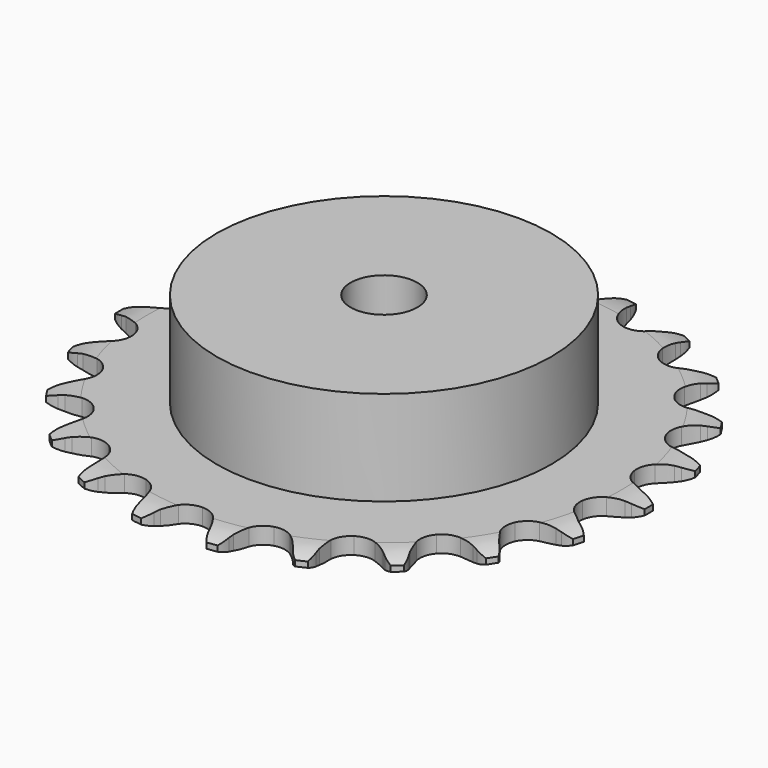
from build123d import *

# Parameters (mm, degrees)
PAD_DEPTH         = 3
SKETCH001_R       = 30
PAD001_DEPTH      = 20
SKETCH002_R       = 6
POCKET_DEPTH      = 0.001
POCKET_DEPTH_BACK = 20.001


with BuildPart() as part:
    # Sprocket → Pad (new body)
    with BuildSketch(Plane.XY):
        with BuildLine():
            ThreePointArc((-6.92637, 48.173959), (-5.704686, 46.972333), (-4.847717, 45.488412))
            Line((-4.847717, 45.488412), (-4.472713, 44.572816))
            ThreePointArc((-4.472713, 44.572816), (-3.8712, 43.346946), (-3.110322, 42.213085))
            ThreePointArc((-3.110322, 42.213085), (-1.732291, 41.089009), (0, 40.686906))
            ThreePointArc((0, 40.686906), (1.732291, 41.089009), (3.110322, 42.213085))
            ThreePointArc((3.110322, 42.213085), (3.8712, 43.346946), (4.472713, 44.572816))
            Line((4.472713, 44.572816), (4.847717, 45.488412))
            ThreePointArc((4.847717, 45.488412), (5.704686, 46.972333), (6.92637, 48.173959))
            ThreePointArc((6.92637, 48.173959), (7.76003, 46.676819), (8.164216, 45.011571))
            Line((8.164216, 45.011571), (8.266077, 44.027413))
            ThreePointArc((8.266077, 44.027413), (8.497857, 42.681733), (8.908469, 41.379438))
            ThreePointArc((8.908469, 41.379438), (9.913991, 39.912658), (11.462826, 39.0388))
            ThreePointArc((11.462826, 39.0388), (13.238232, 38.936573), (14.877132, 39.62688))
            Line((14.877132, 39.62688), (16.84915, 41.507195))
            ThreePointArc((16.84915, 41.507195), (17.148594, 41.901168), (17.466917, 42.280052))
            ThreePointArc((17.466917, 42.280052), (18.707241, 43.462428), (20.217976, 44.271192))
            ThreePointArc((20.217976, 44.271192), (20.596073, 42.599827), (20.514733, 40.88816))
            Line((20.514733, 40.88816), (20.335198, 39.91517))
            ThreePointArc((20.335198, 39.91517), (20.178467, 38.5587), (20.205548, 37.193474))
            ThreePointArc((20.205548, 37.193474), (20.7571, 35.502821), (21.997002, 34.228003))
            ThreePointArc((21.997002, 34.228003), (23.671691, 33.629727), (25.438686, 33.83034))
            Line((25.438686, 33.83034), (27.860569, 35.078908))
            ThreePointArc((27.860569, 35.078908), (28.258879, 35.372559), (28.671051, 35.646413))
            ThreePointArc((28.671051, 35.646413), (30.194247, 36.431455), (31.871642, 36.781835))
            ThreePointArc((31.871642, 36.781835), (31.763546, 35.07165), (31.203268, 33.452234))
            Line((31.203268, 33.452234), (30.756883, 32.569238))
            ThreePointArc((30.756883, 32.569238), (30.224339, 31.311871), (29.865694, 29.994316))
            ThreePointArc((29.865694, 29.994316), (29.918592, 28.216756), (30.749112, 26.644257))
            ThreePointArc((30.749112, 26.644257), (32.18741, 25.5984), (33.939349, 25.293068))
            Line((33.939349, 25.293068), (36.614891, 25.808736))
            ThreePointArc((36.614891, 25.808736), (37.079797, 25.978276), (37.552427, 26.124915))
            ThreePointArc((37.552427, 26.124915), (39.235095, 26.449023), (40.943257, 26.312633))
            ThreePointArc((40.943257, 26.312633), (40.357725, 24.702177), (39.3639, 23.306207))
            Line((39.3639, 23.306207), (38.686828, 22.58474))
            ThreePointArc((38.686828, 22.58474), (37.821614, 21.52834), (37.106299, 20.365198))
            ThreePointArc((37.106299, 20.365198), (36.656257, 18.644738), (37.010112, 16.901952))
            ThreePointArc((37.010112, 16.901952), (38.095497, 15.493244), (39.690448, 14.706701))
            Line((39.690448, 14.706701), (42.402892, 14.447694))
            ThreePointArc((42.402892, 14.447694), (42.896731, 14.479387), (43.391529, 14.486931))
            ThreePointArc((43.391529, 14.486931), (45.097349, 14.323848), (46.697893, 13.711738))
            ThreePointArc((46.697893, 13.711738), (45.682361, 12.33148), (44.335503, 11.27205))
            Line((44.335503, 11.27205), (43.482596, 10.77056))
            ThreePointArc((43.482596, 10.77056), (42.354807, 10.00071), (41.340772, 9.086212))
            ThreePointArc((41.340772, 9.086212), (40.424251, 7.562234), (40.272772, 5.79035))
            ThreePointArc((40.272772, 5.79035), (40.917313, 4.132917), (42.226062, 2.928885))
            Line((42.226062, 2.928885), (44.755662, 1.916186))
            ThreePointArc((44.755662, 1.916186), (45.238427, 1.807464), (45.715307, 1.675302))
            ThreePointArc((45.715307, 1.675302), (47.306084, 1.03824), (48.669343, 0))
            ThreePointArc((48.669343, 0), (47.306084, -1.03824), (45.715307, -1.675302))
            Line((45.715307, -1.675302), (44.755662, -1.916186))
            ThreePointArc((44.755662, -1.916186), (43.456666, -2.337117), (42.226062, -2.928885))
            ThreePointArc((42.226062, -2.928885), (40.917313, -4.132917), (40.272772, -5.79035))
            ThreePointArc((40.272772, -5.79035), (40.424251, -7.562234), (41.340772, -9.086212))
            Line((41.340772, -9.086212), (43.482596, -10.77056))
            ThreePointArc((43.482596, -10.77056), (43.915174, -11.010888), (44.335503, -11.27205))
            ThreePointArc((44.335503, -11.27205), (45.682361, -12.33148), (46.697893, -13.711738))
            ThreePointArc((46.697893, -13.711738), (45.097349, -14.323848), (43.391529, -14.486931))
            Line((43.391529, -14.486931), (42.402892, -14.447694))
            ThreePointArc((42.402892, -14.447694), (41.037923, -14.485605), (39.690448, -14.706701))
            ThreePointArc((39.690448, -14.706701), (38.095497, -15.493244), (37.010112, -16.901952))
            ThreePointArc((37.010112, -16.901952), (36.656257, -18.644738), (37.106299, -20.365198))
            Line((37.106299, -20.365198), (38.686828, -22.58474))
            ThreePointArc((38.686828, -22.58474), (39.034175, -22.937204), (39.3639, -23.306207))
            ThreePointArc((39.3639, -23.306207), (40.357725, -24.702177), (40.943257, -26.312633))
            ThreePointArc((40.943257, -26.312633), (39.235095, -26.449023), (37.552427, -26.124915))
            Line((37.552427, -26.124915), (36.614891, -25.808736))
            ThreePointArc((36.614891, -25.808736), (35.294533, -25.460555), (33.939349, -25.293068))
            ThreePointArc((33.939349, -25.293068), (32.18741, -25.5984), (30.749112, -26.644257))
            ThreePointArc((30.749112, -26.644257), (29.918592, -28.216756), (29.865694, -29.994316))
            Line((29.865694, -29.994316), (30.756883, -32.569238))
            ThreePointArc((30.756883, -32.569238), (30.99086, -33.005284), (31.203268, -33.452234))
            ThreePointArc((31.203268, -33.452234), (31.763546, -35.07165), (31.871642, -36.781835))
            ThreePointArc((31.871642, -36.781835), (30.194247, -36.431455), (28.671051, -35.646413))
            Line((28.671051, -35.646413), (27.860569, -35.078908))
            ThreePointArc((27.860569, -35.078908), (26.691789, -34.372843), (25.438686, -33.83034))
            ThreePointArc((25.438686, -33.83034), (23.671691, -33.629727), (21.997002, -34.228003))
            ThreePointArc((21.997002, -34.228003), (20.7571, -35.502821), (20.205548, -37.193474))
            Line((20.205548, -37.193474), (20.335198, -39.91517))
            ThreePointArc((20.335198, -39.91517), (20.436849, -40.399473), (20.514733, -40.88816))
            ThreePointArc((20.514733, -40.88816), (20.596073, -42.599827), (20.217976, -44.271192))
            ThreePointArc((20.217976, -44.271192), (18.707241, -43.462428), (17.466917, -42.280052))
            Line((17.466917, -42.280052), (16.84915, -41.507195))
            ThreePointArc((16.84915, -41.507195), (15.926635, -40.500447), (14.877132, -39.62688))
            ThreePointArc((14.877132, -39.62688), (13.238232, -38.936573), (11.462826, -39.0388))
            ThreePointArc((11.462826, -39.0388), (9.913991, -39.912658), (8.908469, -41.379438))
            Line((8.908469, -41.379438), (8.266077, -44.027413))
            ThreePointArc((8.266077, -44.027413), (8.227166, -44.520736), (8.164216, -45.011571))
            ThreePointArc((8.164216, -45.011571), (7.76003, -46.676819), (6.92637, -48.173959))
            ThreePointArc((6.92637, -48.173959), (5.704686, -46.972333), (4.847717, -45.488412))
            Line((4.847717, -45.488412), (4.472713, -44.572816))
            ThreePointArc((4.472713, -44.572816), (3.8712, -43.346946), (3.110322, -42.213085))
            ThreePointArc((3.110322, -42.213085), (1.732291, -41.089009), (0, -40.686906))
            ThreePointArc((0, -40.686906), (-1.732291, -41.089009), (-3.110322, -42.213085))
            Line((-3.110322, -42.213085), (-4.472713, -44.572816))
            ThreePointArc((-4.472713, -44.572816), (-4.649032, -45.035194), (-4.847717, -45.488412))
            ThreePointArc((-4.847717, -45.488412), (-5.704686, -46.972333), (-6.92637, -48.173959))
            ThreePointArc((-6.92637, -48.173959), (-7.76003, -46.676819), (-8.164216, -45.011571))
            Line((-8.164216, -45.011571), (-8.266077, -44.027413))
            ThreePointArc((-8.266077, -44.027413), (-8.497857, -42.681733), (-8.908469, -41.379438))
            ThreePointArc((-8.908469, -41.379438), (-9.913991, -39.912658), (-11.462826, -39.0388))
            ThreePointArc((-11.462826, -39.0388), (-13.238232, -38.936573), (-14.877132, -39.62688))
            Line((-14.877132, -39.62688), (-16.84915, -41.507195))
            ThreePointArc((-16.84915, -41.507195), (-17.148594, -41.901168), (-17.466917, -42.280052))
            ThreePointArc((-17.466917, -42.280052), (-18.707241, -43.462428), (-20.217976, -44.271192))
            ThreePointArc((-20.217976, -44.271192), (-20.596073, -42.599827), (-20.514733, -40.88816))
            Line((-20.514733, -40.88816), (-20.335198, -39.91517))
            ThreePointArc((-20.335198, -39.91517), (-20.178467, -38.5587), (-20.205548, -37.193474))
            ThreePointArc((-20.205548, -37.193474), (-20.7571, -35.502821), (-21.997002, -34.228003))
            ThreePointArc((-21.997002, -34.228003), (-23.671691, -33.629727), (-25.438686, -33.83034))
            Line((-25.438686, -33.83034), (-27.860569, -35.078908))
            ThreePointArc((-27.860569, -35.078908), (-28.258879, -35.372559), (-28.671051, -35.646413))
            ThreePointArc((-28.671051, -35.646413), (-30.194247, -36.431455), (-31.871642, -36.781835))
            ThreePointArc((-31.871642, -36.781835), (-31.763546, -35.07165), (-31.203268, -33.452234))
            Line((-31.203268, -33.452234), (-30.756883, -32.569238))
            ThreePointArc((-30.756883, -32.569238), (-30.224339, -31.311871), (-29.865694, -29.994316))
            ThreePointArc((-29.865694, -29.994316), (-29.918592, -28.216756), (-30.749112, -26.644257))
            ThreePointArc((-30.749112, -26.644257), (-32.18741, -25.5984), (-33.939349, -25.293068))
            Line((-33.939349, -25.293068), (-36.614891, -25.808736))
            ThreePointArc((-36.614891, -25.808736), (-37.079797, -25.978276), (-37.552427, -26.124915))
            ThreePointArc((-37.552427, -26.124915), (-39.235095, -26.449023), (-40.943257, -26.312633))
            ThreePointArc((-40.943257, -26.312633), (-40.357725, -24.702177), (-39.3639, -23.306207))
            Line((-39.3639, -23.306207), (-38.686828, -22.58474))
            ThreePointArc((-38.686828, -22.58474), (-37.821614, -21.52834), (-37.106299, -20.365198))
            ThreePointArc((-37.106299, -20.365198), (-36.656257, -18.644738), (-37.010112, -16.901952))
            ThreePointArc((-37.010112, -16.901952), (-38.095497, -15.493244), (-39.690448, -14.706701))
            Line((-39.690448, -14.706701), (-42.402892, -14.447694))
            ThreePointArc((-42.402892, -14.447694), (-42.896731, -14.479387), (-43.391529, -14.486931))
            ThreePointArc((-43.391529, -14.486931), (-45.097349, -14.323848), (-46.697893, -13.711738))
            ThreePointArc((-46.697893, -13.711738), (-45.682361, -12.33148), (-44.335503, -11.27205))
            Line((-44.335503, -11.27205), (-43.482596, -10.77056))
            ThreePointArc((-43.482596, -10.77056), (-42.354807, -10.00071), (-41.340772, -9.086212))
            ThreePointArc((-41.340772, -9.086212), (-40.424251, -7.562234), (-40.272772, -5.79035))
            ThreePointArc((-40.272772, -5.79035), (-40.917313, -4.132917), (-42.226062, -2.928885))
            Line((-42.226062, -2.928885), (-44.755662, -1.916186))
            ThreePointArc((-44.755662, -1.916186), (-45.238427, -1.807464), (-45.715307, -1.675302))
            ThreePointArc((-45.715307, -1.675302), (-47.306084, -1.03824), (-48.669343, 0))
            ThreePointArc((-48.669343, 0), (-47.306084, 1.03824), (-45.715307, 1.675302))
            Line((-45.715307, 1.675302), (-44.755662, 1.916186))
            ThreePointArc((-44.755662, 1.916186), (-43.456666, 2.337117), (-42.226062, 2.928885))
            ThreePointArc((-42.226062, 2.928885), (-40.917313, 4.132917), (-40.272772, 5.79035))
            ThreePointArc((-40.272772, 5.79035), (-40.424251, 7.562234), (-41.340772, 9.086212))
            Line((-41.340772, 9.086212), (-43.482596, 10.77056))
            ThreePointArc((-43.482596, 10.77056), (-43.915174, 11.010888), (-44.335503, 11.27205))
            ThreePointArc((-44.335503, 11.27205), (-45.682361, 12.33148), (-46.697893, 13.711738))
            ThreePointArc((-46.697893, 13.711738), (-45.097349, 14.323848), (-43.391529, 14.486931))
            Line((-43.391529, 14.486931), (-42.402892, 14.447694))
            ThreePointArc((-42.402892, 14.447694), (-41.037923, 14.485605), (-39.690448, 14.706701))
            ThreePointArc((-39.690448, 14.706701), (-38.095497, 15.493244), (-37.010112, 16.901952))
            ThreePointArc((-37.010112, 16.901952), (-36.656257, 18.644738), (-37.106299, 20.365198))
            Line((-37.106299, 20.365198), (-38.686828, 22.58474))
            ThreePointArc((-38.686828, 22.58474), (-39.034175, 22.937204), (-39.3639, 23.306207))
            ThreePointArc((-39.3639, 23.306207), (-40.357725, 24.702177), (-40.943257, 26.312633))
            ThreePointArc((-40.943257, 26.312633), (-39.235095, 26.449023), (-37.552427, 26.124915))
            Line((-37.552427, 26.124915), (-36.614891, 25.808736))
            ThreePointArc((-36.614891, 25.808736), (-35.294533, 25.460555), (-33.939349, 25.293068))
            ThreePointArc((-33.939349, 25.293068), (-32.18741, 25.5984), (-30.749112, 26.644257))
            ThreePointArc((-30.749112, 26.644257), (-29.918592, 28.216756), (-29.865694, 29.994316))
            Line((-29.865694, 29.994316), (-30.756883, 32.569238))
            ThreePointArc((-30.756883, 32.569238), (-30.99086, 33.005284), (-31.203268, 33.452234))
            ThreePointArc((-31.203268, 33.452234), (-31.763546, 35.07165), (-31.871642, 36.781835))
            ThreePointArc((-31.871642, 36.781835), (-30.194247, 36.431455), (-28.671051, 35.646413))
            Line((-28.671051, 35.646413), (-27.860569, 35.078908))
            ThreePointArc((-27.860569, 35.078908), (-26.691789, 34.372843), (-25.438686, 33.83034))
            ThreePointArc((-25.438686, 33.83034), (-23.671691, 33.629727), (-21.997002, 34.228003))
            ThreePointArc((-21.997002, 34.228003), (-20.7571, 35.502821), (-20.205548, 37.193474))
            Line((-20.205548, 37.193474), (-20.335198, 39.91517))
            ThreePointArc((-20.335198, 39.91517), (-20.436849, 40.399473), (-20.514733, 40.88816))
            ThreePointArc((-20.514733, 40.88816), (-20.596073, 42.599827), (-20.217976, 44.271192))
            ThreePointArc((-20.217976, 44.271192), (-18.707241, 43.462428), (-17.466917, 42.280052))
            Line((-17.466917, 42.280052), (-16.84915, 41.507195))
            ThreePointArc((-16.84915, 41.507195), (-15.926635, 40.500447), (-14.877132, 39.62688))
            ThreePointArc((-14.877132, 39.62688), (-13.238232, 38.936573), (-11.462826, 39.0388))
            ThreePointArc((-11.462826, 39.0388), (-9.913991, 39.912658), (-8.908469, 41.379438))
            Line((-8.908469, 41.379438), (-8.266077, 44.027413))
            ThreePointArc((-8.266077, 44.027413), (-8.227166, 44.520736), (-8.164216, 45.011571))
            ThreePointArc((-8.164216, 45.011571), (-7.76003, 46.676819), (-6.92637, 48.173959))
        make_face()
    extrude(amount=PAD_DEPTH)

    # Sketch → Groove (revolve, cut)
    with BuildSketch(Plane.XZ):
        with BuildLine():
            Line((42.5, 0), (47.5, 0))
            Line((52.5, 0), (47.5, 0))
            Line((52.5, 3), (52.5, 0))
            Line((47.5, 3), (52.5, 3))
            Line((42.5, 3), (47.5, 3))
            ThreePointArc((47.5, 2), (45.04951, 2.747549), (42.5, 3))
            Line((47.5, 1), (47.5, 2))
            ThreePointArc((42.5, 0), (45.04951, 0.252451), (47.5, 1))
        make_face()
    revolve(axis=Axis((0, 0, 0), (0, 0, 1)), mode=Mode.SUBTRACT)

    # Sketch001 → Pad001 (join)
    with BuildSketch(Plane.XY):
        Circle(SKETCH001_R)
    extrude(amount=PAD001_DEPTH)

    # Sketch002 → Pocket (cut, two sides)
    with BuildSketch(Plane.XY) as pocket_sk:
        Circle(SKETCH002_R)
    extrude(amount=-POCKET_DEPTH, mode=Mode.SUBTRACT)
    extrude(pocket_sk.sketch, amount=POCKET_DEPTH_BACK, mode=Mode.SUBTRACT)


solid = part.part
